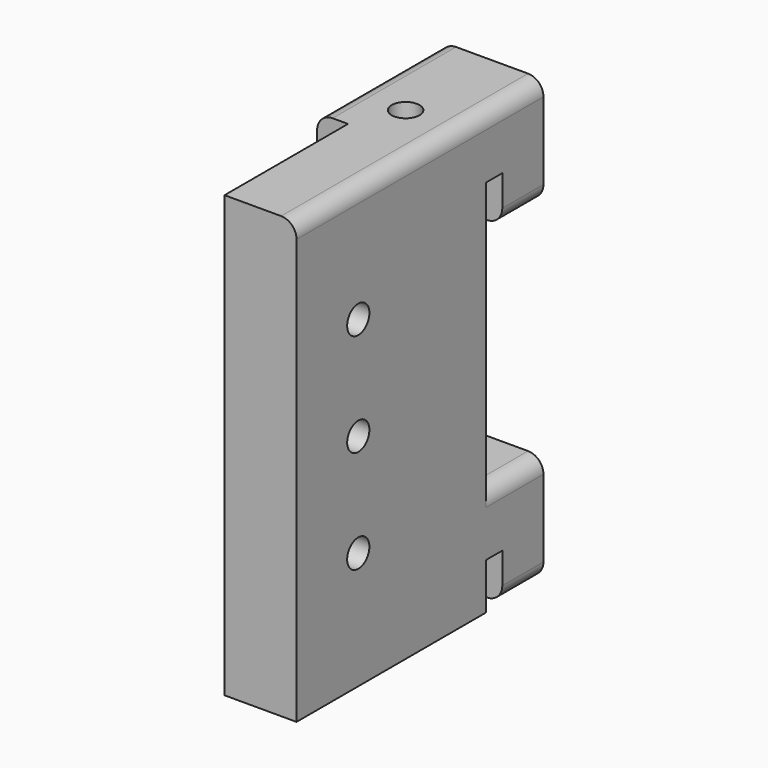
from build123d import *

# Parameters (mm, degrees)
F1_DEPTH = 10
F2_R     = 1.35
F3_DEPTH = 15
F4_W     = 15
F4_H     = 42.8
F5_DEPTH = 3
F6_R     = 1.35
F7_DEPTH = 7.001
F8_R     = 1.5


with BuildPart() as f1:
    # F0 (on Right) → F1 (new body)
    with BuildSketch(Plane.YZ):
        Polygon((7, 0), (-23, 0), (-23, -42.8), (0, -42.8), (0, -38.3), (2, -38.3), (2, -42.8), (7, -42.8), (7, -32.3), (0, -32.3), (0, -6), (2, -6), (2, -10.5), (7, -10.5), align=None)
    extrude(amount=F1_DEPTH)

    # F2 (on face) → F3 (cut)
    with BuildSketch(Plane.XY):
        with Locations((5, -3.5)):
            Circle(F2_R)
    extrude(amount=-F3_DEPTH, mode=Mode.SUBTRACT)

    # F4 (on face) → F5 (cut)
    with BuildSketch(Plane(origin=(0, 0, 0), x_dir=(0, -1, 0), z_dir=(-1, 0, 0))):
        with Locations((15.5, -21.4)):
            Rectangle(F4_W, F4_H)
    extrude(amount=-F5_DEPTH, mode=Mode.SUBTRACT)

    # F6 (on face) → F7 (cut, through all)
    with BuildSketch(Plane(origin=(3, 0, 0), x_dir=(0, -1, 0), z_dir=(-1, 0, 0))):
        with Locations((15.5, -21.4)):
            Circle(F6_R)
        with Locations((15.5, -11.4)):
            Circle(F6_R)
        with Locations((15.5, -31.4)):
            Circle(F6_R)
    extrude(amount=-F7_DEPTH, mode=Mode.SUBTRACT)

    # F8
    f8_edges = [f1.edges().sort_by_distance(p)[0] for p in [
        (0, -0.5, 0),
        (10, -8, 0),
        (0, 4.5, -10.5),
        (0, 3.5, -32.3),
        (10, 3.5, -32.3),
        (10, 4.5, -10.5),
        (10, 4.5, -42.8),
        (0, 4.5, -42.8),
    ]]
    fillet(f8_edges, radius=F8_R)


solid = f1.part
